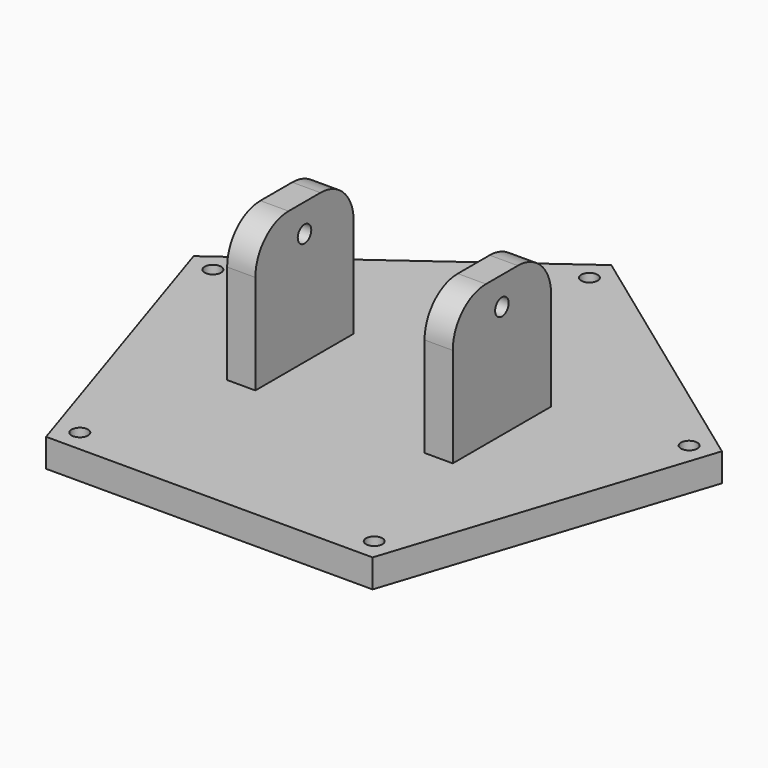
from build123d import *

# Parameters (mm, degrees)
F0_R     = 1.4529433878
F0_W     = 5
F0_H     = 21.7857151878
F1_DEPTH = 5
F2_DEPTH = 30
F3_R     = 7.3585229381
F5_D     = 3
F5_DEPTH = 100
F5_TIP   = 0.9012909285
F6_D     = 3
F6_DEPTH = 100
F6_START = 15
F6_TIP   = 0.9012909285


with BuildPart() as f1:
    # F0 (on Top) → F1 (new body)
    with BuildSketch(Plane.XY):
        Polygon((46.8364858899, 15.218096768), (0, 49.2467956293), (-46.8364858899, 15.218096768), (-28.9465401936, -39.8414945826), (28.9465401936, -39.8414945826), align=None)
        with Locations((-26.0947393151, -35.9163274127)):
            Circle(F0_R, mode=Mode.SUBTRACT)
        with Locations((-17.5, 0)):
            Rectangle(F0_W, F0_H, mode=Mode.SUBTRACT)
        with Locations((26.0947393151, -35.9163274127)):
            Circle(F0_R, mode=Mode.SUBTRACT)
        with Locations((17.5, 0)):
            Rectangle(F0_W, F0_H, mode=Mode.SUBTRACT)
        with Locations((-42.2221751394, 13.7188163206)):
            Circle(F0_R, mode=Mode.SUBTRACT)
        with Locations((42.2221751394, 13.7188163206)):
            Circle(F0_R, mode=Mode.SUBTRACT)
        with Locations((0, 44.3950221842)):
            Circle(F0_R, mode=Mode.SUBTRACT)
    extrude(amount=F1_DEPTH)

    # F0 (on Top) → F2 (join)
    with BuildSketch(Plane.XY):
        with Locations((-17.5, 0)):
            Rectangle(F0_W, F0_H)
        with Locations((17.5, 0)):
            Rectangle(F0_W, F0_H)
    extrude(amount=F2_DEPTH)

    # F3
    f3_edges = [f1.edges().sort_by_distance(p)[0] for p in [
        (-17.5, -10.892858, 30),
        (17.5, -10.892858, 30),
        (17.5, 10.892858, 30),
        (-17.5, 10.892858, 30),
    ]]
    fillet(f3_edges, radius=F3_R)

    # F5 (one way)
    with BuildSketch(Plane(origin=(0, 0, 0), x_dir=(0, 1, 0), z_dir=(-1, 0, 0))):
        with Locations((0, -25)):
            Circle(F5_D / 2)
    extrude(amount=-F5_DEPTH, mode=Mode.SUBTRACT)
    with Locations(Plane(origin=(0, 0, 0), x_dir=(0, 1, 0), z_dir=(-1, 0, 0))):
        with Locations((0, -25)):
            with Locations((0, 0, -(F5_DEPTH + F5_TIP / 2))):  # 118° drill point
                Cone(0, F5_D / 2, F5_TIP, mode=Mode.SUBTRACT)

    # F6
    # its depths count from where the whole tool has entered the part; down to there all is cleared
    with Locations(Plane.YZ.offset(-F6_START)):
        with Locations((0, 25)):
            Hole(F6_D / 2, depth=F6_DEPTH)
            with Locations((0, 0, -(F6_DEPTH + F6_TIP / 2))):  # 118° drill point
                Cone(0, F6_D / 2, F6_TIP, mode=Mode.SUBTRACT)


solid = f1.part
